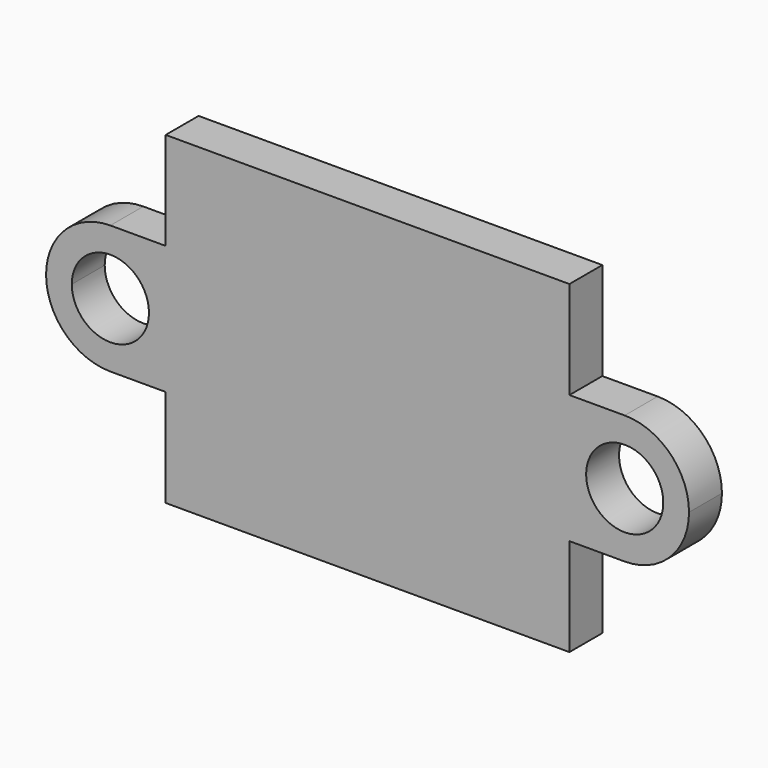
from build123d import *

# Parameters (mm, degrees)
PAD007_DEPTH          = 0.8
PAD007_MIRROR_2_DEPTH = 0.8


with BuildPart() as part:
    # Sketch038 (on XZ_Plane013 of Origin026) → Pad007 (new body, symmetric)
    with BuildSketch(Plane.XZ):
        with BuildLine():
            Line((0, 6.3), (0, 0))
            Line((0, 0), (-8.5, 0))
            ThreePointArc((-8.5, 0), (-10, 1.5), (-11.5, 0))
            Line((-11.5, 0), (-12.5, 0))
            ThreePointArc((-10, 2.5), (-11.767767, 1.767767), (-12.5, 0))
            Line((-10, 2.5), (-7.85, 2.5))
            Line((-7.85, 2.5), (-7.85, 6.3))
            Line((-7.85, 6.3), (0, 6.3))
        make_face()
    pad007 = extrude(amount=PAD007_DEPTH, both=True)

    # Sketch038 Mirror 2 → Pad007 Mirror 2 (add, symmetric)
    with BuildSketch(Plane(origin=(0, 0, 0), x_dir=(-1, 0, 0), z_dir=(0, 1, 0))):
        with BuildLine():
            Line((0, 6.3), (0, 0))
            Line((0, 0), (-8.5, 0))
            ThreePointArc((-8.5, 0), (-10, 1.5), (-11.5, 0))
            Line((-11.5, 0), (-12.5, 0))
            ThreePointArc((-10, 2.5), (-11.767767, 1.767767), (-12.5, 0))
            Line((-10, 2.5), (-7.85, 2.5))
            Line((-7.85, 2.5), (-7.85, 6.3))
            Line((-7.85, 6.3), (0, 6.3))
        make_face()
    pad007_mirror_2 = extrude(amount=-PAD007_MIRROR_2_DEPTH, both=True)

    # Mirror001: Pad007, Pad007 Mirror 2 across Sketch038 H_Axis
    add(pad007.mirror(Plane(origin=(0, 0, 0), x_dir=(0, -1, 0), z_dir=(0, 0, 1))))
    add(pad007_mirror_2.mirror(Plane(origin=(0, 0, 0), x_dir=(0, -1, 0), z_dir=(0, 0, 1))))


solid = part.part
